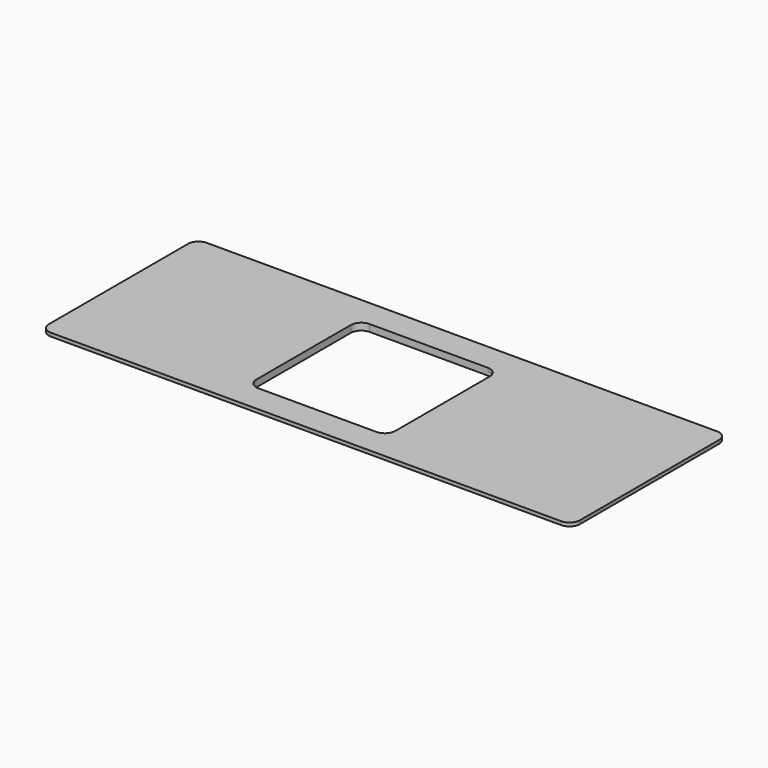
from build123d import *

# Parameters (mm, degrees)
F1_DEPTH = 3.175
F3_DEPTH = 3.175


with BuildPart() as f1:
    # F0 (on Top) → F1 (new body)
    with BuildSketch(Plane.XY):
        with BuildLine():
            Line((179.43576, 152.4), (-286.43326, 152.4))
            ThreePointArc((-286.43326, 152.4), (-293.168452, 149.610192), (-295.95826, 142.875))
            Line((-295.95826, 142.875), (-295.95826, -15.875))
            ThreePointArc((-295.95826, -15.875), (-293.168452, -22.610192), (-286.43326, -25.4))
            Line((-286.43326, -25.4), (179.43576, -25.4))
            ThreePointArc((179.43576, -25.4), (186.170952, -22.610192), (188.96076, -15.875))
            Line((188.96076, -15.875), (188.96076, 142.875))
            ThreePointArc((188.96076, 142.875), (186.170952, 149.610192), (179.43576, 152.4))
        make_face()
        with BuildLine():
            ThreePointArc((0, 9.525), (-2.789808, 2.789808), (-9.525, 0))
            Line((-9.525, 0), (-117.475, 0))
            ThreePointArc((-117.475, 0), (-124.210192, 2.789808), (-127, 9.525))
            Line((-127, 9.525), (-127, 117.475))
            ThreePointArc((-127, 117.475), (-124.210192, 124.210192), (-117.475, 127))
            Line((-117.475, 127), (-9.525, 127))
            ThreePointArc((-9.525, 127), (-2.789808, 124.210192), (0, 117.475))
            Line((0, 117.475), (0, 9.525))
        make_face(mode=Mode.SUBTRACT)
    extrude(amount=F1_DEPTH)

    # F2 (on face) → F3 (join)
    with BuildSketch(Plane(origin=(0, 0, 0), x_dir=(1, 0, 0), z_dir=(0, 0, -1))):
        with BuildLine():
            Line((-5, 12.7), (-290.95826, 12.7))
            ThreePointArc((-290.95826, 12.7), (-294.493794, 11.235534), (-295.95826, 7.7))
            Line((-295.95826, 7.7), (-295.95826, -134.7))
            ThreePointArc((-295.95826, -134.7), (-294.493794, -138.235534), (-290.95826, -139.7))
            Line((-290.95826, -139.7), (-5, -139.7))
            ThreePointArc((-5, -139.7), (-1.464466, -138.235534), (0, -134.7))
            Line((0, -134.7), (0, -127))
            Line((0, -127), (-117.475, -127))
            ThreePointArc((-117.475, -127), (-124.210192, -124.210192), (-127, -117.475))
            Line((-127, -117.475), (-127, -9.525))
            ThreePointArc((-127, -9.525), (-124.210192, -2.789808), (-117.475, 0))
            Line((-117.475, 0), (0, 0))
            Line((0, 0), (0, 7.7))
            ThreePointArc((0, 7.7), (-1.464466, 11.235534), (-5, 12.7))
        make_face()
    extrude(amount=F3_DEPTH)


solid = f1.part
